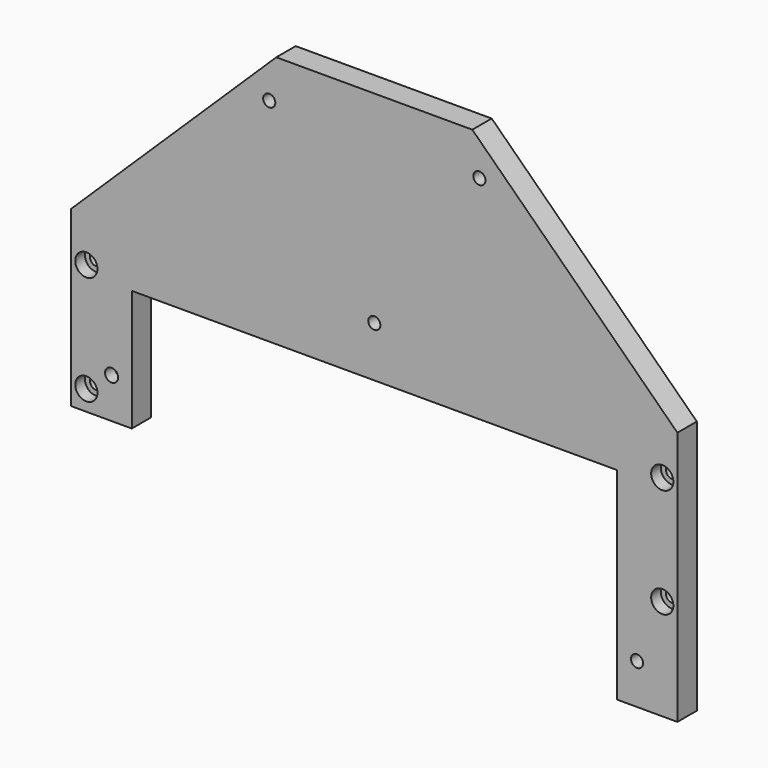
from build123d import *

# Parameters (mm, degrees)
F0_R     = 3
F0_R_2   = 3.25
F1_DEPTH = 12
F2_R     = 5.5
F3_DEPTH = 6
F4_R     = 5.5
F5_DEPTH = 6


with BuildPart() as f1:
    # F0 (on Front) → F1 (new body)
    with BuildSketch(Plane.XZ):
        Polygon((-300, -99), (-300, -185), (-270, -185), (-270, -125), (-30, -125), (-30, -225), (0, -225), (0, -99), (-101.5, 0), (-198.5, 0), align=None)
        with Locations((-292.5, -175)):
            Circle(F0_R, mode=Mode.SUBTRACT)
        with Locations((-280, -165)):
            Circle(F0_R_2, mode=Mode.SUBTRACT)
        with Locations((-292.5, -121)):
            Circle(F0_R, mode=Mode.SUBTRACT)
        with Locations((-20, -205)):
            Circle(F0_R, mode=Mode.SUBTRACT)
        with Locations((-7.5, -175)):
            Circle(F0_R, mode=Mode.SUBTRACT)
        with Locations((-7.5, -121)):
            Circle(F0_R, mode=Mode.SUBTRACT)
        with Locations((-202, -20)):
            Circle(F0_R, mode=Mode.SUBTRACT)
        with Locations((-150, -100)):
            Circle(F0_R, mode=Mode.SUBTRACT)
        with Locations((-98, -20)):
            Circle(F0_R, mode=Mode.SUBTRACT)
    extrude(amount=F1_DEPTH)

    # F2 (on face) → F3 (cut)
    with BuildSketch(Plane.XZ.offset(12)):
        with Locations((-292.5, -175)):
            Circle(F2_R)
        with Locations((-292.5, -121)):
            Circle(F2_R)
        with Locations((-7.5, -175)):
            Circle(F2_R)
        with Locations((-7.5, -121)):
            Circle(F2_R)
    extrude(amount=-F3_DEPTH, mode=Mode.SUBTRACT)

    # F4 (on face) → F5 (cut)
    with BuildSketch(Plane(origin=(0, 0, 0), x_dir=(-1, 0, 0), z_dir=(0, 1, 0))):
        with Locations((20, -205)):
            Circle(F4_R)
        with Locations((280, -165)):
            Circle(F4_R)
        with Locations((98, -20)):
            Circle(F4_R)
        with Locations((202, -20)):
            Circle(F4_R)
        with Locations((150, -100)):
            Circle(F4_R)
    extrude(amount=-F5_DEPTH, mode=Mode.SUBTRACT)


solid = f1.part
